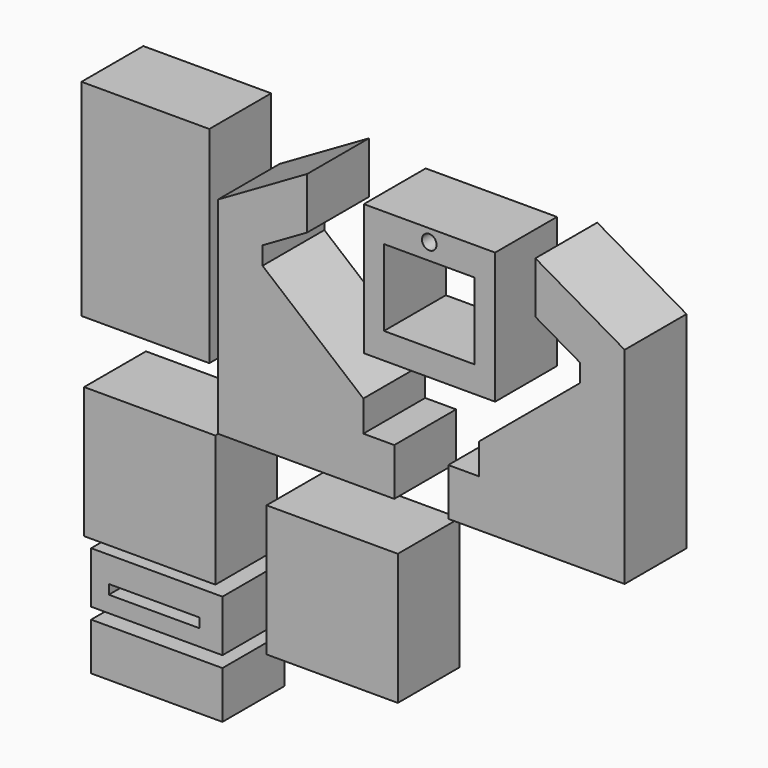
from build123d import *

# Parameters (mm, degrees)
F0_W     = 31.496
F0_H     = 50.8
F0_W_2   = 32.346091
F0_H_2   = 32.346091
F0_W_3   = 22.314538
F0_H_3   = 18.84339
F0_R     = 1.79868
F0_H_4   = 32.34609
F0_W_4   = 32.34609
F0_H_5   = 12.7
F0_W_5   = 22.332657
F0_H_6   = 2.327877
F0_H_7   = 11.673905
F1_DEPTH = 19.05


with BuildPart() as f1:
    # F0 (on Front) → F1 (new body)
    with BuildSketch(Plane.XZ):
        with Locations((-61.318863, 51.638833)):
            Rectangle(F0_W, F0_H)
        Polygon((-21.460655, 62.425739), (-21.460655, 75.125739), (-43.4577, 62.425739), (-43.4577, 11.625739), (0, 11.625739), (0, 23.299643), (-7.62, 23.299643), (-7.62, 30.919643), (-32.459178, 51.638833), (-32.459178, 56.075739), align=None)
        Polygon((56.76542, 62.425739), (34.768375, 75.125739), (34.768375, 62.425739), (45.766897, 56.075739), (45.766897, 51.638833), (20.927719, 30.919643), (20.927719, 23.299643), (13.307719, 23.299643), (13.307719, 11.625739), (56.76542, 11.625739), align=None)
        with Locations((8.676337, 56.958917)):
            Rectangle(F0_W_2, F0_H_2)
        with Locations((8.619347, 56.653988)):
            Rectangle(F0_W_3, F0_H_3, mode=Mode.SUBTRACT)
        with Locations((8.619347, 70.116587)):
            Circle(F0_R, mode=Mode.SUBTRACT)
        with Locations((-60.250794, -5.139893)):
            Rectangle(F0_W_2, F0_H_4)
        with Locations((-15.296674, -16.173046)):
            Rectangle(F0_W_4, F0_H_2)
        with Locations((-58.515218, -29.705568)):
            Rectangle(F0_W_4, F0_H_5)
        with Locations((-59.166723, -30.869506)):
            Rectangle(F0_W_5, F0_H_6, mode=Mode.SUBTRACT)
        with Locations((-58.515218, -44.684704)):
            Rectangle(F0_W_4, F0_H_7)
    extrude(amount=F1_DEPTH)


solid = f1.part
